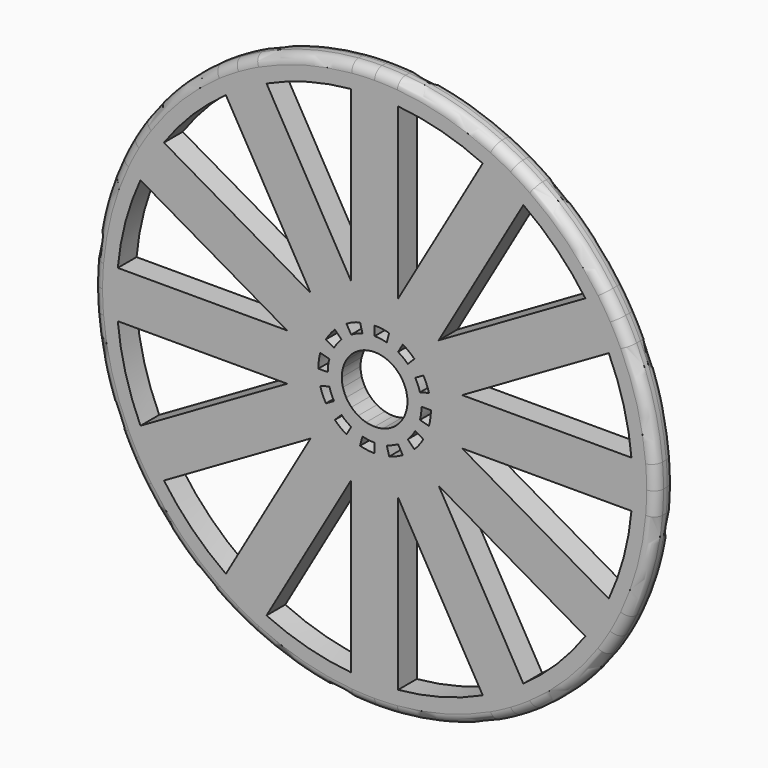
from build123d import *

# Parameters (mm, degrees)
F1_DEPTH = 6.35
F2_R     = 2.54


with BuildPart() as f1:
    # F0 (on Front) → F1 (new body)
    with BuildSketch(Plane.XZ):
        with BuildLine():
            Line((-76.2, 0), (-69.85, 0))
            ThreePointArc((-69.85, 0), (-69.7776537349, 3.1782918761), (-69.5607648032, 6.35))
            Line((-69.5607648032, 6.35), (-75.9349557187, 6.35))
            ThreePointArc((-75.9349557187, 6.35), (-76.1337100953, 3.1777644843), (-76.2, 0))
        make_face()
        with BuildLine():
            ThreePointArc((-57.0663894262, 40.2796437156), (-49.3914086659, 49.3914086659), (-40.2796437156, 57.0663894262))
            Line((-40.2796437156, 57.0663894262), (-43.4667391734, 62.5866006876))
            ThreePointArc((-43.4667391734, 62.5866006876), (-53.8815367264, 53.8815367264), (-62.5866006876, 43.4667391734))
            Line((-62.5866006876, 43.4667391734), (-57.0663894262, 40.2796437156))
        make_face()
        with BuildLine():
            ThreePointArc((-40.2796437156, 57.0663894262), (-37.6413083728, 58.8400748129), (-34.925, 60.4918744543))
            Line((-34.925, 60.4918744543), (-38.1, 65.9911357684))
            ThreePointArc((-38.1, 65.9911357684), (-40.8188798183, 64.3448447848), (-43.4667391734, 62.5866006876))
            Line((-43.4667391734, 62.5866006876), (-40.2796437156, 57.0663894262))
        make_face()
        with BuildLine():
            Line((34.925, 60.4918744543), (38.1, 65.9911357684))
            ThreePointArc((38.1, 65.9911357684), (35.3148303111, 67.5226092512), (32.468216615, 68.9366006548))
            Line((32.468216615, 68.9366006548), (29.2811211575, 63.4163893939))
            ThreePointArc((29.2811211575, 63.4163893939), (32.1363453963, 62.0183666712), (34.925, 60.4918744543))
        make_face()
        with BuildLine():
            Line((-6.3500009208, -23.6985260645), (-4.9305028092, -18.4008869908))
            ThreePointArc((-4.9305028092, -18.4008869908), (-7.2901193866, -17.5999050943), (-9.525, -16.4977839421))
            Line((-9.525, -16.4977839421), (-34.925, -60.4918744543))
            ThreePointArc((-34.925, -60.4918744543), (-32.1363449516, -62.0183669017), (-29.2811202481, -63.4163898138))
            Line((-29.2811202481, -63.4163898138), (-6.3500009208, -23.6985260645))
        make_face()
        with BuildLine():
            Line((23.6985226281, 6.35), (63.4163894262, 29.2811210875))
            ThreePointArc((63.4163894262, 29.2811210875), (62.018366689, 32.1363453621), (60.4918744543, 34.925))
            Line((60.4918744543, 34.925), (16.4977839421, 9.525))
            ThreePointArc((16.4977839421, 9.525), (17.5999050943, 7.2901193866), (18.4008869908, 4.9305028092))
            Line((18.4008869908, 4.9305028092), (23.6985226281, 6.35))
        make_face()
        with BuildLine():
            Line((69.85, 0), (76.2, 0))
            ThreePointArc((76.2, 0), (76.1337100953, 3.1777644843), (75.9349557187, 6.35))
            Line((75.9349557187, 6.35), (69.5607648032, 6.35))
            ThreePointArc((69.5607648032, 6.35), (69.7776537349, 3.1782918761), (69.85, 0))
        make_face()
        with BuildLine():
            ThreePointArc((32.4682165453, -68.9366006876), (35.314830277, -67.5226092691), (38.1, -65.9911357684))
            Line((38.1, -65.9911357684), (34.925, -60.4918744543))
            ThreePointArc((34.925, -60.4918744543), (32.1363453621, -62.018366689), (29.2811210875, -63.4163894262))
            Line((29.2811210875, -63.4163894262), (32.4682165453, -68.9366006876))
        make_face()
        with BuildLine():
            ThreePointArc((-69.5607648032, 6.35), (-67.4699189663, 18.0785103004), (-63.4163894262, 29.2811210875))
            Line((-63.4163894262, 29.2811210875), (-68.9366006876, 32.4682165453))
            ThreePointArc((-68.9366006876, 32.4682165453), (-73.6035479632, 19.7220112368), (-75.9349557187, 6.35))
            Line((-75.9349557187, 6.35), (-69.5607648032, 6.35))
        make_face()
        with BuildLine():
            ThreePointArc((38.1, -65.9911357684), (40.8188798183, -64.3448447848), (43.4667391734, -62.5866006876))
            Line((43.4667391734, -62.5866006876), (40.2796437156, -57.0663894262))
            ThreePointArc((40.2796437156, -57.0663894262), (37.6413083728, -58.8400748129), (34.925, -60.4918744543))
            Line((34.925, -60.4918744543), (38.1, -65.9911357684))
        make_face()
        with BuildLine():
            Line((40.2796437156, 57.0663894262), (43.4667391734, 62.5866006876))
            ThreePointArc((43.4667391734, 62.5866006876), (40.8188798183, 64.3448447848), (38.1, 65.9911357684))
            Line((38.1, 65.9911357684), (34.925, 60.4918744543))
            ThreePointArc((34.925, 60.4918744543), (37.6413083728, 58.8400748129), (40.2796437156, 57.0663894262))
        make_face()
        with BuildLine():
            ThreePointArc((68.9366007365, -32.4682164416), (73.6035479632, -19.7220112368), (75.9349557091, -6.3500001142))
            Line((75.9349557091, -6.3500001142), (69.5607647927, -6.3500001142))
            ThreePointArc((69.5607647927, -6.3500001142), (67.4699189663, -18.0785103004), (63.4163894743, -29.2811209834))
            Line((63.4163894743, -29.2811209834), (68.9366007365, -32.4682164416))
        make_face()
        with BuildLine():
            ThreePointArc((-69.5607648032, -6.35), (-69.7776537349, -3.1782918761), (-69.85, 0))
            Line((-69.85, 0), (-76.2, 0))
            ThreePointArc((-76.2, 0), (-76.1337100953, -3.1777644843), (-75.9349557187, -6.35))
            Line((-75.9349557187, -6.35), (-69.5607648032, -6.35))
        make_face()
        with BuildLine():
            ThreePointArc((-57.0663894262, -40.2796437156), (-58.8400748129, -37.6413083728), (-60.4918744543, -34.925))
            Line((-60.4918744543, -34.925), (-65.9911357684, -38.1))
            ThreePointArc((-65.9911357684, -38.1), (-64.3448447848, -40.8188798183), (-62.5866006876, -43.4667391734))
            Line((-62.5866006876, -43.4667391734), (-57.0663894262, -40.2796437156))
        make_face()
        with BuildLine():
            Line((16.4977839421, 9.525), (60.4918744543, 34.925))
            ThreePointArc((60.4918744543, 34.925), (58.8400748129, 37.6413083728), (57.0663894262, 40.2796437156))
            Line((57.0663894262, 40.2796437156), (17.3485226281, 17.3485226281))
            Line((17.3485226281, 17.3485226281), (13.4703841816, 13.4703841816))
            ThreePointArc((13.4703841816, 13.4703841816), (15.1133811325, 11.5969052226), (16.4977839421, 9.525))
        make_face()
        with BuildLine():
            Line((60.4918744543, 34.925), (65.9911357684, 38.1))
            ThreePointArc((65.9911357684, 38.1), (64.3448447848, 40.8188798183), (62.5866006876, 43.4667391734))
            Line((62.5866006876, 43.4667391734), (57.0663894262, 40.2796437156))
            ThreePointArc((57.0663894262, 40.2796437156), (58.8400748129, 37.6413083728), (60.4918744543, 34.925))
        make_face()
        with BuildLine():
            Line((-38.1, -65.9911357684), (-34.925, -60.4918744543))
            ThreePointArc((-34.925, -60.4918744543), (-37.6413083728, -58.8400748129), (-40.2796437156, -57.0663894262))
            Line((-40.2796437156, -57.0663894262), (-43.4667391734, -62.5866006876))
            ThreePointArc((-43.4667391734, -62.5866006876), (-40.8188798183, -64.3448447848), (-38.1, -65.9911357684))
        make_face()
        with BuildLine():
            ThreePointArc((-40.2796437156, -57.0663894262), (-49.3914086659, -49.3914086659), (-57.0663894262, -40.2796437156))
            Line((-57.0663894262, -40.2796437156), (-62.5866006876, -43.4667391734))
            ThreePointArc((-62.5866006876, -43.4667391734), (-53.8815367264, -53.8815367264), (-43.4667391734, -62.5866006876))
            Line((-43.4667391734, -62.5866006876), (-40.2796437156, -57.0663894262))
        make_face()
        with BuildLine():
            ThreePointArc((60.4918744543, -34.925), (62.0183667154, -32.1363453112), (63.4163894743, -29.2811209834))
            Line((63.4163894743, -29.2811209834), (23.6985230544, -6.3500001142))
            Line((23.6985230544, -6.3500001142), (18.4008869908, -4.9305028092))
            ThreePointArc((18.4008869908, -4.9305028092), (17.5999050943, -7.2901193866), (16.4977839421, -9.525))
            Line((16.4977839421, -9.525), (60.4918744543, -34.925))
        make_face()
        with BuildLine():
            ThreePointArc((43.4667391734, -62.5866006876), (53.8815367264, -53.8815367264), (62.5866006876, -43.4667391734))
            Line((62.5866006876, -43.4667391734), (57.0663894262, -40.2796437156))
            ThreePointArc((57.0663894262, -40.2796437156), (49.3914086659, -49.3914086659), (40.2796437156, -57.0663894262))
            Line((40.2796437156, -57.0663894262), (43.4667391734, -62.5866006876))
        make_face()
        with BuildLine():
            Line((69.5607648032, 6.35), (75.9349557187, 6.35))
            ThreePointArc((75.9349557187, 6.35), (73.6035479632, 19.7220112368), (68.9366006876, 32.4682165453))
            Line((68.9366006876, 32.4682165453), (63.4163894262, 29.2811210875))
            ThreePointArc((63.4163894262, 29.2811210875), (67.4699189663, 18.0785103004), (69.5607648032, 6.35))
        make_face()
        with BuildLine():
            Line((17.3485226281, -17.3485226281), (13.4703841816, -13.4703841816))
            ThreePointArc((13.4703841816, -13.4703841816), (11.5969052226, -15.1133811325), (9.525, -16.4977839421))
            Line((9.525, -16.4977839421), (34.925, -60.4918744543))
            ThreePointArc((34.925, -60.4918744543), (37.6413083728, -58.8400748129), (40.2796437156, -57.0663894262))
            Line((40.2796437156, -57.0663894262), (17.3485226281, -17.3485226281))
        make_face()
        with BuildLine():
            Line((6.3499999233, 69.5607648102), (6.3499999233, 75.9349557251))
            ThreePointArc((6.3499999233, 75.9349557251), (3.1777644458, 76.133710097), (0, 76.2))
            Line((0, 76.2), (0, 69.85))
            ThreePointArc((0, 69.85), (3.1782918376, 69.7776537367), (6.3499999233, 69.5607648102))
        make_face()
        with BuildLine():
            Line((29.2811211575, 63.4163893939), (32.468216615, 68.9366006548))
            ThreePointArc((32.468216615, 68.9366006548), (19.7220112368, 73.6035479632), (6.3499999233, 75.9349557251))
            Line((6.3499999233, 75.9349557251), (6.3499999233, 69.5607648102))
            ThreePointArc((6.3499999233, 69.5607648102), (18.0785103004, 67.4699189663), (29.2811211575, 63.4163893939))
        make_face()
        with BuildLine():
            Line((-6.35, 69.5607648032), (-6.35, 75.9349557187))
            ThreePointArc((-6.35, 75.9349557187), (-19.7220112368, 73.6035479632), (-32.4682165453, 68.9366006876))
            Line((-32.4682165453, 68.9366006876), (-29.2811210875, 63.4163894262))
            ThreePointArc((-29.2811210875, 63.4163894262), (-18.0785103004, 67.4699189663), (-6.35, 69.5607648032))
        make_face()
        with BuildLine():
            ThreePointArc((0, -76.2), (3.1777644843, -76.1337100953), (6.35, -75.9349557187))
            Line((6.35, -75.9349557187), (6.35, -69.5607648032))
            ThreePointArc((6.35, -69.5607648032), (3.1782918761, -69.7776537349), (0, -69.85))
            Line((0, -69.85), (0, -76.2))
        make_face()
        with BuildLine():
            Line((0, 69.85), (0, 76.2))
            ThreePointArc((0, 76.2), (-3.1777644843, 76.1337100953), (-6.35, 75.9349557187))
            Line((-6.35, 75.9349557187), (-6.35, 69.5607648032))
            ThreePointArc((-6.35, 69.5607648032), (-3.1782918761, 69.7776537349), (0, 69.85))
        make_face()
        with BuildLine():
            ThreePointArc((6.35, -75.9349557187), (19.7220112368, -73.6035479632), (32.4682165453, -68.9366006876))
            Line((32.4682165453, -68.9366006876), (29.2811210875, -63.4163894262))
            ThreePointArc((29.2811210875, -63.4163894262), (18.0785103004, -67.4699189663), (6.35, -69.5607648032))
            Line((6.35, -69.5607648032), (6.35, -75.9349557187))
        make_face()
        with BuildLine():
            ThreePointArc((-13.4703841816, -13.4703841816), (-15.1133811325, -11.5969052226), (-16.4977839421, -9.525))
            Line((-16.4977839421, -9.525), (-60.4918744543, -34.925))
            ThreePointArc((-60.4918744543, -34.925), (-58.8400748129, -37.6413083728), (-57.0663894262, -40.2796437156))
            Line((-57.0663894262, -40.2796437156), (-17.3485226281, -17.3485226281))
            Line((-17.3485226281, -17.3485226281), (-13.4703841816, -13.4703841816))
        make_face()
        with BuildLine():
            Line((-29.2811210875, 63.4163894262), (-32.4682165453, 68.9366006876))
            ThreePointArc((-32.4682165453, 68.9366006876), (-35.314830277, 67.5226092691), (-38.1, 65.9911357684))
            Line((-38.1, 65.9911357684), (-34.925, 60.4918744543))
            ThreePointArc((-34.925, 60.4918744543), (-32.1363453621, 62.018366689), (-29.2811210875, 63.4163894262))
        make_face()
        with BuildLine():
            ThreePointArc((-6.3500009208, -75.9349556417), (-3.1777649459, -76.1337100761), (0, -76.2))
            Line((0, -76.2), (0, -69.85))
            ThreePointArc((0, -69.85), (-3.1782923379, -69.7776537139), (-6.3500009208, -69.5607647191))
            Line((-6.3500009208, -69.5607647191), (-6.3500009208, -75.9349556417))
        make_face()
        with BuildLine():
            Line((63.4163894262, 29.2811210875), (68.9366006876, 32.4682165453))
            ThreePointArc((68.9366006876, 32.4682165453), (67.5226092691, 35.314830277), (65.9911357684, 38.1))
            Line((65.9911357684, 38.1), (60.4918744543, 34.925))
            ThreePointArc((60.4918744543, 34.925), (62.018366689, 32.1363453621), (63.4163894262, 29.2811210875))
        make_face()
        with BuildLine():
            ThreePointArc((75.9349557091, -6.3500001142), (76.133710093, -3.1777645416), (76.2, 0))
            Line((76.2, 0), (69.85, 0))
            ThreePointArc((69.85, 0), (69.7776537323, -3.1782919334), (69.5607647927, -6.3500001142))
            Line((69.5607647927, -6.3500001142), (75.9349557091, -6.3500001142))
        make_face()
        with BuildLine():
            ThreePointArc((-38.1, -65.9911357684), (-35.3148298676, -67.5226094832), (-32.4682157094, -68.9366010813))
            Line((-32.4682157094, -68.9366010813), (-29.2811202481, -63.4163898138))
            ThreePointArc((-29.2811202481, -63.4163898138), (-32.1363449516, -62.0183669017), (-34.925, -60.4918744543))
            Line((-34.925, -60.4918744543), (-38.1, -65.9911357684))
        make_face()
        with BuildLine():
            ThreePointArc((-13.4703841816, 13.4703841816), (-11.5969052226, 15.1133811325), (-9.525, 16.4977839421))
            Line((-9.525, 16.4977839421), (-34.925, 60.4918744543))
            ThreePointArc((-34.925, 60.4918744543), (-37.6413083728, 58.8400748129), (-40.2796437156, 57.0663894262))
            Line((-40.2796437156, 57.0663894262), (-17.3485226281, 17.3485226281))
            Line((-17.3485226281, 17.3485226281), (-13.4703841816, 13.4703841816))
        make_face()
        with BuildLine():
            ThreePointArc((-63.4163894262, 29.2811210875), (-62.018366689, 32.1363453621), (-60.4918744543, 34.925))
            Line((-60.4918744543, 34.925), (-65.9911357684, 38.1))
            ThreePointArc((-65.9911357684, 38.1), (-67.5226092691, 35.314830277), (-68.9366006876, 32.4682165453))
            Line((-68.9366006876, 32.4682165453), (-63.4163894262, 29.2811210875))
        make_face()
        with BuildLine():
            ThreePointArc((65.9911357684, -38.1), (67.5226092957, -35.3148302262), (68.9366007365, -32.4682164416))
            Line((68.9366007365, -32.4682164416), (63.4163894743, -29.2811209834))
            ThreePointArc((63.4163894743, -29.2811209834), (62.0183667154, -32.1363453112), (60.4918744543, -34.925))
            Line((60.4918744543, -34.925), (65.9911357684, -38.1))
        make_face()
        with BuildLine():
            Line((-65.9911357684, 38.1), (-60.4918744543, 34.925))
            ThreePointArc((-60.4918744543, 34.925), (-58.8400748129, 37.6413083728), (-57.0663894262, 40.2796437156))
            Line((-57.0663894262, 40.2796437156), (-62.5866006876, 43.4667391734))
            ThreePointArc((-62.5866006876, 43.4667391734), (-64.3448447848, 40.8188798183), (-65.9911357684, 38.1))
        make_face()
        with BuildLine():
            ThreePointArc((62.5866006876, -43.4667391734), (64.3448447848, -40.8188798183), (65.9911357684, -38.1))
            Line((65.9911357684, -38.1), (60.4918744543, -34.925))
            ThreePointArc((60.4918744543, -34.925), (58.8400748129, -37.6413083728), (57.0663894262, -40.2796437156))
            Line((57.0663894262, -40.2796437156), (62.5866006876, -43.4667391734))
        make_face()
        with BuildLine():
            Line((34.925, -60.4918744543), (9.525, -16.4977839421))
            ThreePointArc((9.525, -16.4977839421), (7.2901193866, -17.5999050943), (4.9305028092, -18.4008869908))
            Line((4.9305028092, -18.4008869908), (6.35, -23.6985226281))
            Line((6.35, -23.6985226281), (29.2811210875, -63.4163894262))
            ThreePointArc((29.2811210875, -63.4163894262), (32.1363453621, -62.018366689), (34.925, -60.4918744543))
        make_face()
        with BuildLine():
            Line((-68.9366006876, -32.4682165453), (-63.4163894262, -29.2811210875))
            ThreePointArc((-63.4163894262, -29.2811210875), (-67.4699189663, -18.0785103004), (-69.5607648032, -6.35))
            Line((-69.5607648032, -6.35), (-75.9349557187, -6.35))
            ThreePointArc((-75.9349557187, -6.35), (-73.6035479632, -19.7220112368), (-68.9366006876, -32.4682165453))
        make_face()
        with BuildLine():
            Line((-65.9911357684, -38.1), (-60.4918744543, -34.925))
            ThreePointArc((-60.4918744543, -34.925), (-62.018366689, -32.1363453621), (-63.4163894262, -29.2811210875))
            Line((-63.4163894262, -29.2811210875), (-68.9366006876, -32.4682165453))
            ThreePointArc((-68.9366006876, -32.4682165453), (-67.5226092691, -35.314830277), (-65.9911357684, -38.1))
        make_face()
        with BuildLine():
            ThreePointArc((-32.4682157094, -68.9366010813), (-19.7220112368, -73.6035479632), (-6.3500009208, -75.9349556417))
            Line((-6.3500009208, -75.9349556417), (-6.3500009208, -69.5607647191))
            ThreePointArc((-6.3500009208, -69.5607647191), (-18.0785103004, -67.4699189663), (-29.2811202481, -63.4163898138))
            Line((-29.2811202481, -63.4163898138), (-32.4682157094, -68.9366010813))
        make_face()
        with BuildLine():
            Line((57.0663894262, 40.2796437156), (62.5866006876, 43.4667391734))
            ThreePointArc((62.5866006876, 43.4667391734), (53.8815367264, 53.8815367264), (43.4667391734, 62.5866006876))
            Line((43.4667391734, 62.5866006876), (40.2796437156, 57.0663894262))
            ThreePointArc((40.2796437156, 57.0663894262), (49.3914086659, 49.3914086659), (57.0663894262, 40.2796437156))
        make_face()
        with BuildLine():
            Line((-14.7207095926, -3.9444022474), (-12.2672579939, -3.2870018728))
            ThreePointArc((-12.2672579939, -3.2870018728), (-12.5913497394, -1.6576826412), (-12.7, 0))
            Line((-12.7, 0), (-15.24, 0))
            ThreePointArc((-15.24, 0), (-15.1096196873, -1.9892191694), (-14.7207095926, -3.9444022474))
        make_face()
        with BuildLine():
            Line((-3.9444022474, 14.7207095926), (-3.2870018728, 12.2672579939))
            ThreePointArc((-3.2870018728, 12.2672579939), (-1.6576826412, 12.5913497394), (0, 12.7))
            Line((0, 12.7), (0, 15.24))
            ThreePointArc((0, 15.24), (-1.9892191694, 15.1096196873), (-3.9444022474, 14.7207095926))
        make_face()
        with BuildLine():
            ThreePointArc((-9.525, 16.4977839421), (-7.2901193866, 17.5999050943), (-4.9305028092, 18.4008869908))
            Line((-4.9305028092, 18.4008869908), (-6.35, 23.6985226281))
            Line((-6.35, 23.6985226281), (-29.2811210875, 63.4163894262))
            ThreePointArc((-29.2811210875, 63.4163894262), (-32.1363453621, 62.018366689), (-34.925, 60.4918744543))
            Line((-34.925, 60.4918744543), (-9.525, 16.4977839421))
        make_face()
        with BuildLine():
            Line((3.9444022474, 14.7207095926), (4.9305028092, 18.4008869908))
            ThreePointArc((4.9305028092, 18.4008869908), (2.4865239618, 18.8870246092), (0, 19.05))
            Line((0, 19.05), (0, 15.24))
            ThreePointArc((0, 15.24), (1.9892191694, 15.1096196873), (3.9444022474, 14.7207095926))
        make_face()
        with BuildLine():
            ThreePointArc((4.9305028092, 18.4008869908), (7.2901193866, 17.5999050943), (9.525, 16.4977839421))
            Line((9.525, 16.4977839421), (34.925, 60.4918744543))
            ThreePointArc((34.925, 60.4918744543), (32.1363453963, 62.0183666712), (29.2811211575, 63.4163893939))
            Line((29.2811211575, 63.4163893939), (6.3499999233, 23.6985223417))
            Line((6.3499999233, 23.6985223417), (4.9305028092, 18.4008869908))
        make_face()
        with BuildLine():
            Line((13.1982271537, 7.62), (16.4977839421, 9.525))
            ThreePointArc((16.4977839421, 9.525), (15.1133811325, 11.5969052226), (13.4703841816, 13.4703841816))
            Line((13.4703841816, 13.4703841816), (10.7763073453, 10.7763073453))
            ThreePointArc((10.7763073453, 10.7763073453), (12.090704906, 9.2775241781), (13.1982271537, 7.62))
        make_face()
        with BuildLine():
            Line((15.24, 0), (19.05, 0))
            ThreePointArc((19.05, 0), (18.8870246092, 2.4865239618), (18.4008869908, 4.9305028092))
            Line((18.4008869908, 4.9305028092), (14.7207095926, 3.9444022474))
            ThreePointArc((14.7207095926, 3.9444022474), (15.1096196873, 1.9892191694), (15.24, 0))
        make_face()
        with BuildLine():
            ThreePointArc((18.4008869908, -4.9305028092), (18.8870246092, -2.4865239618), (19.05, 0))
            Line((19.05, 0), (15.24, 0))
            ThreePointArc((15.24, 0), (15.1096196873, -1.9892191694), (14.7207095926, -3.9444022474))
            Line((14.7207095926, -3.9444022474), (18.4008869908, -4.9305028092))
        make_face()
        with BuildLine():
            ThreePointArc((9.525, -16.4977839421), (11.5969052226, -15.1133811325), (13.4703841816, -13.4703841816))
            Line((13.4703841816, -13.4703841816), (10.7763073453, -10.7763073453))
            ThreePointArc((10.7763073453, -10.7763073453), (9.2775241781, -12.090704906), (7.62, -13.1982271537))
            Line((7.62, -13.1982271537), (9.525, -16.4977839421))
        make_face()
        with BuildLine():
            ThreePointArc((0, -19.05), (2.4865239618, -18.8870246092), (4.9305028092, -18.4008869908))
            Line((4.9305028092, -18.4008869908), (3.9444022474, -14.7207095926))
            ThreePointArc((3.9444022474, -14.7207095926), (1.9892191694, -15.1096196873), (0, -15.24))
            Line((0, -15.24), (0, -19.05))
        make_face()
        with BuildLine():
            ThreePointArc((-4.9305028092, -18.4008869908), (-2.4865239618, -18.8870246092), (0, -19.05))
            Line((0, -19.05), (0, -15.24))
            ThreePointArc((0, -15.24), (-1.9892191694, -15.1096196873), (-3.9444022474, -14.7207095926))
            Line((-3.9444022474, -14.7207095926), (-4.9305028092, -18.4008869908))
        make_face()
        with BuildLine():
            Line((-18.4008869908, -4.9305028092), (-14.7207095926, -3.9444022474))
            ThreePointArc((-14.7207095926, -3.9444022474), (-15.1096196873, -1.9892191694), (-15.24, 0))
            Line((-15.24, 0), (-19.05, 0))
            ThreePointArc((-19.05, 0), (-18.8870246092, -2.4865239618), (-18.4008869908, -4.9305028092))
        make_face()
        with BuildLine():
            ThreePointArc((-10.7763073453, 10.7763073453), (-9.2775241781, 12.090704906), (-7.62, 13.1982271537))
            Line((-7.62, 13.1982271537), (-9.525, 16.4977839421))
            ThreePointArc((-9.525, 16.4977839421), (-11.5969052226, 15.1133811325), (-13.4703841816, 13.4703841816))
            Line((-13.4703841816, 13.4703841816), (-10.7763073453, 10.7763073453))
        make_face()
        with BuildLine():
            Line((0, 15.24), (0, 19.05))
            ThreePointArc((0, 19.05), (-2.4865239618, 18.8870246092), (-4.9305028092, 18.4008869908))
            Line((-4.9305028092, 18.4008869908), (-3.9444022474, 14.7207095926))
            ThreePointArc((-3.9444022474, 14.7207095926), (-1.9892191694, 15.1096196873), (0, 15.24))
        make_face()
        with BuildLine():
            ThreePointArc((-6.2861792847, 6.2861792847), (-5.4118891039, 7.0529111952), (-4.445, 7.6989658396))
            Line((-4.445, 7.6989658396), (-6.35, 10.9985226281))
            ThreePointArc((-6.35, 10.9985226281), (-7.7312701484, 10.0755874217), (-8.9802561211, 8.9802561211))
            Line((-8.9802561211, 8.9802561211), (-6.2861792847, 6.2861792847))
        make_face()
        with BuildLine():
            Line((7.6989658396, 4.445), (10.9985226281, 6.35))
            ThreePointArc((10.9985226281, 6.35), (10.0755874217, 7.7312701484), (8.9802561211, 8.9802561211))
            Line((8.9802561211, 8.9802561211), (6.2861792847, 6.2861792847))
            ThreePointArc((6.2861792847, 6.2861792847), (7.0529111952, 5.4118891039), (7.6989658396, 4.445))
        make_face()
        with BuildLine():
            Line((10.9985226281, 6.35), (13.1982271537, 7.62))
            ThreePointArc((13.1982271537, 7.62), (12.090704906, 9.2775241781), (10.7763073453, 10.7763073453))
            Line((10.7763073453, 10.7763073453), (8.9802561211, 8.9802561211))
            ThreePointArc((8.9802561211, 8.9802561211), (10.0755874217, 7.7312701484), (10.9985226281, 6.35))
        make_face()
        with BuildLine():
            Line((12.7, 0), (15.24, 0))
            ThreePointArc((15.24, 0), (15.1096196873, 1.9892191694), (14.7207095926, 3.9444022474))
            Line((14.7207095926, 3.9444022474), (12.2672579939, 3.2870018728))
            ThreePointArc((12.2672579939, 3.2870018728), (12.5913497394, 1.6576826412), (12.7, 0))
        make_face()
        with BuildLine():
            Line((8.89, 0), (12.7, 0))
            ThreePointArc((12.7, 0), (12.5913497394, 1.6576826412), (12.2672579939, 3.2870018728))
            Line((12.2672579939, 3.2870018728), (8.5870805957, 2.300901311))
            ThreePointArc((8.5870805957, 2.300901311), (8.8139448176, 1.1603778488), (8.89, 0))
        make_face()
        with BuildLine():
            ThreePointArc((12.2672579939, -3.2870018728), (12.5913497394, -1.6576826412), (12.7, 0))
            Line((12.7, 0), (8.89, 0))
            ThreePointArc((8.89, 0), (8.8139448176, -1.1603778488), (8.5870805957, -2.300901311))
            Line((8.5870805957, -2.300901311), (12.2672579939, -3.2870018728))
        make_face()
        with BuildLine():
            ThreePointArc((7.62, -13.1982271537), (9.2775241781, -12.090704906), (10.7763073453, -10.7763073453))
            Line((10.7763073453, -10.7763073453), (8.9802561211, -8.9802561211))
            ThreePointArc((8.9802561211, -8.9802561211), (7.7312701484, -10.0755874217), (6.35, -10.9985226281))
            Line((6.35, -10.9985226281), (7.62, -13.1982271537))
        make_face()
        with BuildLine():
            ThreePointArc((6.2861792847, -6.2861792847), (5.4118891039, -7.0529111952), (4.445, -7.6989658396))
            Line((4.445, -7.6989658396), (6.35, -10.9985226281))
            ThreePointArc((6.35, -10.9985226281), (7.7312701484, -10.0755874217), (8.9802561211, -8.9802561211))
            Line((8.9802561211, -8.9802561211), (6.2861792847, -6.2861792847))
        make_face()
        with BuildLine():
            ThreePointArc((3.2870018728, -12.2672579939), (1.6576826412, -12.5913497394), (0, -12.7))
            Line((0, -12.7), (0, -15.24))
            ThreePointArc((0, -15.24), (1.9892191694, -15.1096196873), (3.9444022474, -14.7207095926))
            Line((3.9444022474, -14.7207095926), (3.2870018728, -12.2672579939))
        make_face()
        with BuildLine():
            Line((0, -12.7), (0, -8.89))
            ThreePointArc((0, -8.89), (-1.1603778488, -8.8139448176), (-2.300901311, -8.5870805957))
            Line((-2.300901311, -8.5870805957), (-3.2870018728, -12.2672579939))
            ThreePointArc((-3.2870018728, -12.2672579939), (-1.6576826412, -12.5913497394), (0, -12.7))
        make_face()
        with BuildLine():
            ThreePointArc((-8.9802561211, -8.9802561211), (-10.0755874217, -7.7312701484), (-10.9985226281, -6.35))
            Line((-10.9985226281, -6.35), (-13.1982271537, -7.62))
            ThreePointArc((-13.1982271537, -7.62), (-12.090704906, -9.2775241781), (-10.7763073453, -10.7763073453))
            Line((-10.7763073453, -10.7763073453), (-8.9802561211, -8.9802561211))
        make_face()
        with BuildLine():
            ThreePointArc((-6.2861792847, -6.2861792847), (-7.0529111952, -5.4118891039), (-7.6989658396, -4.445))
            Line((-7.6989658396, -4.445), (-10.9985226281, -6.35))
            ThreePointArc((-10.9985226281, -6.35), (-10.0755874217, -7.7312701484), (-8.9802561211, -8.9802561211))
            Line((-8.9802561211, -8.9802561211), (-6.2861792847, -6.2861792847))
        make_face()
        with BuildLine():
            ThreePointArc((2.300901311, -8.5870805957), (1.1603778488, -8.8139448176), (0, -8.89))
            Line((0, -8.89), (0, -12.7))
            ThreePointArc((0, -12.7), (1.6576826412, -12.5913497394), (3.2870018728, -12.2672579939))
            Line((3.2870018728, -12.2672579939), (2.300901311, -8.5870805957))
        make_face()
        with BuildLine():
            ThreePointArc((-8.9802561211, 8.9802561211), (-7.7312701484, 10.0755874217), (-6.35, 10.9985226281))
            Line((-6.35, 10.9985226281), (-7.62, 13.1982271537))
            ThreePointArc((-7.62, 13.1982271537), (-9.2775241781, 12.090704906), (-10.7763073453, 10.7763073453))
            Line((-10.7763073453, 10.7763073453), (-8.9802561211, 8.9802561211))
        make_face()
        with BuildLine():
            ThreePointArc((-15.24, 0), (-15.1096196873, 1.9892191694), (-14.7207095926, 3.9444022474))
            Line((-14.7207095926, 3.9444022474), (-18.4008869908, 4.9305028092))
            ThreePointArc((-18.4008869908, 4.9305028092), (-18.8870246092, 2.4865239618), (-19.05, 0))
            Line((-19.05, 0), (-15.24, 0))
        make_face()
        with BuildLine():
            ThreePointArc((-10.7763073453, -10.7763073453), (-12.090704906, -9.2775241781), (-13.1982271537, -7.62))
            Line((-13.1982271537, -7.62), (-16.4977839421, -9.525))
            ThreePointArc((-16.4977839421, -9.525), (-15.1133811325, -11.5969052226), (-13.4703841816, -13.4703841816))
            Line((-13.4703841816, -13.4703841816), (-10.7763073453, -10.7763073453))
        make_face()
        with BuildLine():
            Line((-60.4918744543, -34.925), (-16.4977839421, -9.525))
            ThreePointArc((-16.4977839421, -9.525), (-17.5999050943, -7.2901193866), (-18.4008869908, -4.9305028092))
            Line((-18.4008869908, -4.9305028092), (-23.6985226281, -6.35))
            Line((-23.6985226281, -6.35), (-63.4163894262, -29.2811210875))
            ThreePointArc((-63.4163894262, -29.2811210875), (-62.018366689, -32.1363453621), (-60.4918744543, -34.925))
        make_face()
        with BuildLine():
            ThreePointArc((-18.4008869908, 4.9305028092), (-17.5999050943, 7.2901193866), (-16.4977839421, 9.525))
            Line((-16.4977839421, 9.525), (-60.4918744543, 34.925))
            ThreePointArc((-60.4918744543, 34.925), (-62.018366689, 32.1363453621), (-63.4163894262, 29.2811210875))
            Line((-63.4163894262, 29.2811210875), (-23.6985226281, 6.35))
            Line((-23.6985226281, 6.35), (-18.4008869908, 4.9305028092))
        make_face()
        with BuildLine():
            Line((19.05, 0), (69.85, 0))
            ThreePointArc((69.85, 0), (69.7776537349, 3.1782918761), (69.5607648032, 6.35))
            Line((69.5607648032, 6.35), (23.6985226281, 6.35))
            Line((23.6985226281, 6.35), (18.4008869908, 4.9305028092))
            ThreePointArc((18.4008869908, 4.9305028092), (18.8870246092, 2.4865239618), (19.05, 0))
        make_face()
        with BuildLine():
            ThreePointArc((69.5607647927, -6.3500001142), (69.7776537323, -3.1782919334), (69.85, 0))
            Line((69.85, 0), (19.05, 0))
            ThreePointArc((19.05, 0), (18.8870246092, -2.4865239618), (18.4008869908, -4.9305028092))
            Line((18.4008869908, -4.9305028092), (23.6985230544, -6.3500001142))
            Line((23.6985230544, -6.3500001142), (69.5607647927, -6.3500001142))
        make_face()
        with BuildLine():
            ThreePointArc((57.0663894262, -40.2796437156), (58.8400748129, -37.6413083728), (60.4918744543, -34.925))
            Line((60.4918744543, -34.925), (16.4977839421, -9.525))
            ThreePointArc((16.4977839421, -9.525), (15.1133811325, -11.5969052226), (13.4703841816, -13.4703841816))
            Line((13.4703841816, -13.4703841816), (17.3485226281, -17.3485226281))
            Line((17.3485226281, -17.3485226281), (57.0663894262, -40.2796437156))
        make_face()
        with BuildLine():
            Line((6.35, -23.6985226281), (4.9305028092, -18.4008869908))
            ThreePointArc((4.9305028092, -18.4008869908), (2.4865239618, -18.8870246092), (0, -19.05))
            Line((0, -19.05), (0, -69.85))
            ThreePointArc((0, -69.85), (3.1782918761, -69.7776537349), (6.35, -69.5607648032))
            Line((6.35, -69.5607648032), (6.35, -23.6985226281))
        make_face()
        with BuildLine():
            Line((0, -69.85), (0, -19.05))
            ThreePointArc((0, -19.05), (-2.4865239618, -18.8870246092), (-4.9305028092, -18.4008869908))
            Line((-4.9305028092, -18.4008869908), (-6.3500009208, -23.6985260645))
            Line((-6.3500009208, -23.6985260645), (-6.3500009208, -69.5607647191))
            ThreePointArc((-6.3500009208, -69.5607647191), (-3.1782923379, -69.7776537139), (0, -69.85))
        make_face()
        with BuildLine():
            Line((-34.925, -60.4918744543), (-9.525, -16.4977839421))
            ThreePointArc((-9.525, -16.4977839421), (-11.5969052226, -15.1133811325), (-13.4703841816, -13.4703841816))
            Line((-13.4703841816, -13.4703841816), (-17.3485226281, -17.3485226281))
            Line((-17.3485226281, -17.3485226281), (-40.2796437156, -57.0663894262))
            ThreePointArc((-40.2796437156, -57.0663894262), (-37.6413083728, -58.8400748129), (-34.925, -60.4918744543))
        make_face()
        with BuildLine():
            Line((-23.6985226281, -6.35), (-18.4008869908, -4.9305028092))
            ThreePointArc((-18.4008869908, -4.9305028092), (-18.8870246092, -2.4865239618), (-19.05, 0))
            Line((-19.05, 0), (-69.85, 0))
            ThreePointArc((-69.85, 0), (-69.7776537349, -3.1782918761), (-69.5607648032, -6.35))
            Line((-69.5607648032, -6.35), (-23.6985226281, -6.35))
        make_face()
        with BuildLine():
            ThreePointArc((-19.05, 0), (-18.8870246092, 2.4865239618), (-18.4008869908, 4.9305028092))
            Line((-18.4008869908, 4.9305028092), (-23.6985226281, 6.35))
            Line((-23.6985226281, 6.35), (-69.5607648032, 6.35))
            ThreePointArc((-69.5607648032, 6.35), (-69.7776537349, 3.1782918761), (-69.85, 0))
            Line((-69.85, 0), (-19.05, 0))
        make_face()
        with BuildLine():
            Line((-60.4918744543, 34.925), (-16.4977839421, 9.525))
            ThreePointArc((-16.4977839421, 9.525), (-15.1133811325, 11.5969052226), (-13.4703841816, 13.4703841816))
            Line((-13.4703841816, 13.4703841816), (-17.3485226281, 17.3485226281))
            Line((-17.3485226281, 17.3485226281), (-57.0663894262, 40.2796437156))
            ThreePointArc((-57.0663894262, 40.2796437156), (-58.8400748129, 37.6413083728), (-60.4918744543, 34.925))
        make_face()
        with BuildLine():
            ThreePointArc((-4.9305028092, 18.4008869908), (-2.4865239618, 18.8870246092), (0, 19.05))
            Line((0, 19.05), (0, 69.85))
            ThreePointArc((0, 69.85), (-3.1782918761, 69.7776537349), (-6.35, 69.5607648032))
            Line((-6.35, 69.5607648032), (-6.35, 23.6985226281))
            Line((-6.35, 23.6985226281), (-4.9305028092, 18.4008869908))
        make_face()
        with BuildLine():
            ThreePointArc((0, 19.05), (2.4865239618, 18.8870246092), (4.9305028092, 18.4008869908))
            Line((4.9305028092, 18.4008869908), (6.3499999233, 23.6985223417))
            Line((6.3499999233, 23.6985223417), (6.3499999233, 69.5607648102))
            ThreePointArc((6.3499999233, 69.5607648102), (3.1782918376, 69.7776537367), (0, 69.85))
            Line((0, 69.85), (0, 19.05))
        make_face()
        with BuildLine():
            ThreePointArc((9.525, 16.4977839421), (11.5969052226, 15.1133811325), (13.4703841816, 13.4703841816))
            Line((13.4703841816, 13.4703841816), (17.3485226281, 17.3485226281))
            Line((17.3485226281, 17.3485226281), (40.2796437156, 57.0663894262))
            ThreePointArc((40.2796437156, 57.0663894262), (37.6413083728, 58.8400748129), (34.925, 60.4918744543))
            Line((34.925, 60.4918744543), (9.525, 16.4977839421))
        make_face()
        with BuildLine():
            Line((14.7207095926, 3.9444022474), (18.4008869908, 4.9305028092))
            ThreePointArc((18.4008869908, 4.9305028092), (17.5999050943, 7.2901193866), (16.4977839421, 9.525))
            Line((16.4977839421, 9.525), (13.1982271537, 7.62))
            ThreePointArc((13.1982271537, 7.62), (14.0799240755, 5.8320955092), (14.7207095926, 3.9444022474))
        make_face()
        with BuildLine():
            ThreePointArc((16.4977839421, -9.525), (17.5999050943, -7.2901193866), (18.4008869908, -4.9305028092))
            Line((18.4008869908, -4.9305028092), (14.7207095926, -3.9444022474))
            ThreePointArc((14.7207095926, -3.9444022474), (14.0799240755, -5.8320955092), (13.1982271537, -7.62))
            Line((13.1982271537, -7.62), (16.4977839421, -9.525))
        make_face()
        with BuildLine():
            ThreePointArc((13.4703841816, -13.4703841816), (15.1133811325, -11.5969052226), (16.4977839421, -9.525))
            Line((16.4977839421, -9.525), (13.1982271537, -7.62))
            ThreePointArc((13.1982271537, -7.62), (12.090704906, -9.2775241781), (10.7763073453, -10.7763073453))
            Line((10.7763073453, -10.7763073453), (13.4703841816, -13.4703841816))
        make_face()
        with BuildLine():
            ThreePointArc((4.9305028092, -18.4008869908), (7.2901193866, -17.5999050943), (9.525, -16.4977839421))
            Line((9.525, -16.4977839421), (7.62, -13.1982271537))
            ThreePointArc((7.62, -13.1982271537), (5.8320955092, -14.0799240755), (3.9444022474, -14.7207095926))
            Line((3.9444022474, -14.7207095926), (4.9305028092, -18.4008869908))
        make_face()
        with BuildLine():
            ThreePointArc((-3.9444022474, -14.7207095926), (-5.8320955092, -14.0799240755), (-7.62, -13.1982271537))
            Line((-7.62, -13.1982271537), (-9.525, -16.4977839421))
            ThreePointArc((-9.525, -16.4977839421), (-7.2901193866, -17.5999050943), (-4.9305028092, -18.4008869908))
            Line((-4.9305028092, -18.4008869908), (-3.9444022474, -14.7207095926))
        make_face()
        with BuildLine():
            Line((-9.525, -16.4977839421), (-7.62, -13.1982271537))
            ThreePointArc((-7.62, -13.1982271537), (-9.2775241781, -12.090704906), (-10.7763073453, -10.7763073453))
            Line((-10.7763073453, -10.7763073453), (-13.4703841816, -13.4703841816))
            ThreePointArc((-13.4703841816, -13.4703841816), (-11.5969052226, -15.1133811325), (-9.525, -16.4977839421))
        make_face()
        with BuildLine():
            Line((-16.4977839421, -9.525), (-13.1982271537, -7.62))
            ThreePointArc((-13.1982271537, -7.62), (-14.0799240755, -5.8320955092), (-14.7207095926, -3.9444022474))
            Line((-14.7207095926, -3.9444022474), (-18.4008869908, -4.9305028092))
            ThreePointArc((-18.4008869908, -4.9305028092), (-17.5999050943, -7.2901193866), (-16.4977839421, -9.525))
        make_face()
        with BuildLine():
            ThreePointArc((-14.7207095926, 3.9444022474), (-14.0799240755, 5.8320955092), (-13.1982271537, 7.62))
            Line((-13.1982271537, 7.62), (-16.4977839421, 9.525))
            ThreePointArc((-16.4977839421, 9.525), (-17.5999050943, 7.2901193866), (-18.4008869908, 4.9305028092))
            Line((-18.4008869908, 4.9305028092), (-14.7207095926, 3.9444022474))
        make_face()
        with BuildLine():
            Line((-16.4977839421, 9.525), (-13.1982271537, 7.62))
            ThreePointArc((-13.1982271537, 7.62), (-12.090704906, 9.2775241781), (-10.7763073453, 10.7763073453))
            Line((-10.7763073453, 10.7763073453), (-13.4703841816, 13.4703841816))
            ThreePointArc((-13.4703841816, 13.4703841816), (-15.1133811325, 11.5969052226), (-16.4977839421, 9.525))
        make_face()
        with BuildLine():
            Line((-9.525, 16.4977839421), (-7.62, 13.1982271537))
            ThreePointArc((-7.62, 13.1982271537), (-5.8320955092, 14.0799240755), (-3.9444022474, 14.7207095926))
            Line((-3.9444022474, 14.7207095926), (-4.9305028092, 18.4008869908))
            ThreePointArc((-4.9305028092, 18.4008869908), (-7.2901193866, 17.5999050943), (-9.525, 16.4977839421))
        make_face()
        with BuildLine():
            Line((7.62, 13.1982271537), (9.525, 16.4977839421))
            ThreePointArc((9.525, 16.4977839421), (7.2901193866, 17.5999050943), (4.9305028092, 18.4008869908))
            Line((4.9305028092, 18.4008869908), (3.9444022474, 14.7207095926))
            ThreePointArc((3.9444022474, 14.7207095926), (5.8320955092, 14.0799240755), (7.62, 13.1982271537))
        make_face()
        with BuildLine():
            Line((10.7763073453, 10.7763073453), (13.4703841816, 13.4703841816))
            ThreePointArc((13.4703841816, 13.4703841816), (11.5969052226, 15.1133811325), (9.525, 16.4977839421))
            Line((9.525, 16.4977839421), (7.62, 13.1982271537))
            ThreePointArc((7.62, 13.1982271537), (9.2775241781, 12.090704906), (10.7763073453, 10.7763073453))
        make_face()
        with BuildLine():
            ThreePointArc((8.9802561211, -8.9802561211), (10.0755874217, -7.7312701484), (10.9985226281, -6.35))
            Line((10.9985226281, -6.35), (7.6989658396, -4.445))
            ThreePointArc((7.6989658396, -4.445), (7.0529111952, -5.4118891039), (6.2861792847, -6.2861792847))
            Line((6.2861792847, -6.2861792847), (8.9802561211, -8.9802561211))
        make_face()
        with BuildLine():
            ThreePointArc((10.9985226281, -6.35), (11.7332700629, -4.860079591), (12.2672579939, -3.2870018728))
            Line((12.2672579939, -3.2870018728), (8.5870805957, -2.300901311))
            ThreePointArc((8.5870805957, -2.300901311), (8.213289044, -3.4020557137), (7.6989658396, -4.445))
            Line((7.6989658396, -4.445), (10.9985226281, -6.35))
        make_face()
        with BuildLine():
            Line((8.5870805957, 2.300901311), (12.2672579939, 3.2870018728))
            ThreePointArc((12.2672579939, 3.2870018728), (11.7332700629, 4.860079591), (10.9985226281, 6.35))
            Line((10.9985226281, 6.35), (7.6989658396, 4.445))
            ThreePointArc((7.6989658396, 4.445), (8.213289044, 3.4020557137), (8.5870805957, 2.300901311))
        make_face()
        with BuildLine():
            Line((6.35, 10.9985226281), (4.445, 7.6989658396))
            ThreePointArc((4.445, 7.6989658396), (5.4118891039, 7.0529111952), (6.2861792847, 6.2861792847))
            Line((6.2861792847, 6.2861792847), (8.9802561211, 8.9802561211))
            ThreePointArc((8.9802561211, 8.9802561211), (7.7312701484, 10.0755874217), (6.35, 10.9985226281))
        make_face()
        with BuildLine():
            ThreePointArc((2.300901311, 8.5870805957), (3.4020557137, 8.213289044), (4.445, 7.6989658396))
            Line((4.445, 7.6989658396), (6.35, 10.9985226281))
            ThreePointArc((6.35, 10.9985226281), (4.860079591, 11.7332700629), (3.2870018728, 12.2672579939))
            Line((3.2870018728, 12.2672579939), (2.300901311, 8.5870805957))
        make_face()
        with BuildLine():
            Line((-6.35, 10.9985226281), (-4.445, 7.6989658396))
            ThreePointArc((-4.445, 7.6989658396), (-3.4020557137, 8.213289044), (-2.300901311, 8.5870805957))
            Line((-2.300901311, 8.5870805957), (-3.2870018728, 12.2672579939))
            ThreePointArc((-3.2870018728, 12.2672579939), (-4.860079591, 11.7332700629), (-6.35, 10.9985226281))
        make_face()
        with BuildLine():
            Line((-10.9985226281, 6.35), (-7.6989658396, 4.445))
            ThreePointArc((-7.6989658396, 4.445), (-7.0529111952, 5.4118891039), (-6.2861792847, 6.2861792847))
            Line((-6.2861792847, 6.2861792847), (-8.9802561211, 8.9802561211))
            ThreePointArc((-8.9802561211, 8.9802561211), (-10.0755874217, 7.7312701484), (-10.9985226281, 6.35))
        make_face()
        with BuildLine():
            ThreePointArc((-8.5870805957, 2.300901311), (-8.213289044, 3.4020557137), (-7.6989658396, 4.445))
            Line((-7.6989658396, 4.445), (-10.9985226281, 6.35))
            ThreePointArc((-10.9985226281, 6.35), (-11.7332700629, 4.860079591), (-12.2672579939, 3.2870018728))
            Line((-12.2672579939, 3.2870018728), (-8.5870805957, 2.300901311))
        make_face()
        with BuildLine():
            Line((-10.9985226281, -6.35), (-7.6989658396, -4.445))
            ThreePointArc((-7.6989658396, -4.445), (-8.213289044, -3.4020557137), (-8.5870805957, -2.300901311))
            Line((-8.5870805957, -2.300901311), (-12.2672579939, -3.2870018728))
            ThreePointArc((-12.2672579939, -3.2870018728), (-11.7332700629, -4.860079591), (-10.9985226281, -6.35))
        make_face()
        with BuildLine():
            Line((-6.35, -10.9985226281), (-4.445, -7.6989658396))
            ThreePointArc((-4.445, -7.6989658396), (-5.4118891039, -7.0529111952), (-6.2861792847, -6.2861792847))
            Line((-6.2861792847, -6.2861792847), (-8.9802561211, -8.9802561211))
            ThreePointArc((-8.9802561211, -8.9802561211), (-7.7312701484, -10.0755874217), (-6.35, -10.9985226281))
        make_face()
        with BuildLine():
            ThreePointArc((-2.300901311, -8.5870805957), (-3.4020557137, -8.213289044), (-4.445, -7.6989658396))
            Line((-4.445, -7.6989658396), (-6.35, -10.9985226281))
            ThreePointArc((-6.35, -10.9985226281), (-4.860079591, -11.7332700629), (-3.2870018728, -12.2672579939))
            Line((-3.2870018728, -12.2672579939), (-2.300901311, -8.5870805957))
        make_face()
        with BuildLine():
            Line((6.35, -10.9985226281), (4.445, -7.6989658396))
            ThreePointArc((4.445, -7.6989658396), (3.4020557137, -8.213289044), (2.300901311, -8.5870805957))
            Line((2.300901311, -8.5870805957), (3.2870018728, -12.2672579939))
            ThreePointArc((3.2870018728, -12.2672579939), (4.860079591, -11.7332700629), (6.35, -10.9985226281))
        make_face()
        with BuildLine():
            ThreePointArc((13.1982271537, -7.62), (14.0799240755, -5.8320955092), (14.7207095926, -3.9444022474))
            Line((14.7207095926, -3.9444022474), (12.2672579939, -3.2870018728))
            ThreePointArc((12.2672579939, -3.2870018728), (11.7332700629, -4.860079591), (10.9985226281, -6.35))
            Line((10.9985226281, -6.35), (13.1982271537, -7.62))
        make_face()
        with BuildLine():
            ThreePointArc((-3.2870018728, -12.2672579939), (-4.860079591, -11.7332700629), (-6.35, -10.9985226281))
            Line((-6.35, -10.9985226281), (-7.62, -13.1982271537))
            ThreePointArc((-7.62, -13.1982271537), (-5.8320955092, -14.0799240755), (-3.9444022474, -14.7207095926))
            Line((-3.9444022474, -14.7207095926), (-3.2870018728, -12.2672579939))
        make_face()
        with BuildLine():
            ThreePointArc((-12.2672579939, 3.2870018728), (-11.7332700629, 4.860079591), (-10.9985226281, 6.35))
            Line((-10.9985226281, 6.35), (-13.1982271537, 7.62))
            ThreePointArc((-13.1982271537, 7.62), (-14.0799240755, 5.8320955092), (-14.7207095926, 3.9444022474))
            Line((-14.7207095926, 3.9444022474), (-12.2672579939, 3.2870018728))
        make_face()
        with BuildLine():
            Line((6.35, 10.9985226281), (7.62, 13.1982271537))
            ThreePointArc((7.62, 13.1982271537), (5.8320955092, 14.0799240755), (3.9444022474, 14.7207095926))
            Line((3.9444022474, 14.7207095926), (3.2870018728, 12.2672579939))
            ThreePointArc((3.2870018728, 12.2672579939), (4.860079591, 11.7332700629), (6.35, 10.9985226281))
        make_face()
        with BuildLine():
            ThreePointArc((-8.89, 0), (-8.8139448176, 1.1603778488), (-8.5870805957, 2.300901311))
            Line((-8.5870805957, 2.300901311), (-12.2672579939, 3.2870018728))
            ThreePointArc((-12.2672579939, 3.2870018728), (-12.5913497394, 1.6576826412), (-12.7, 0))
            Line((-12.7, 0), (-8.89, 0))
        make_face()
        with BuildLine():
            Line((-12.2672579939, -3.2870018728), (-8.5870805957, -2.300901311))
            ThreePointArc((-8.5870805957, -2.300901311), (-8.8139448176, -1.1603778488), (-8.89, 0))
            Line((-8.89, 0), (-12.7, 0))
            ThreePointArc((-12.7, 0), (-12.5913497394, -1.6576826412), (-12.2672579939, -3.2870018728))
        make_face()
        with BuildLine():
            Line((-3.2870018728, 12.2672579939), (-2.300901311, 8.5870805957))
            ThreePointArc((-2.300901311, 8.5870805957), (-1.1603778488, 8.8139448176), (0, 8.89))
            Line((0, 8.89), (0, 12.7))
            ThreePointArc((0, 12.7), (-1.6576826412, 12.5913497394), (-3.2870018728, 12.2672579939))
        make_face()
        with BuildLine():
            ThreePointArc((0, 8.89), (1.1603778488, 8.8139448176), (2.300901311, 8.5870805957))
            Line((2.300901311, 8.5870805957), (3.2870018728, 12.2672579939))
            ThreePointArc((3.2870018728, 12.2672579939), (1.6576826412, 12.5913497394), (0, 12.7))
            Line((0, 12.7), (0, 8.89))
        make_face()
    extrude(amount=F1_DEPTH)

    # F2
    f2_edges = [f1.edges().sort_by_distance(p)[0] for p in [
        (-62.586601, -6.35, -43.466739),
        (-62.586601, 0, -43.466739),
    ]]
    fillet(f2_edges, radius=F2_R)


solid = f1.part
